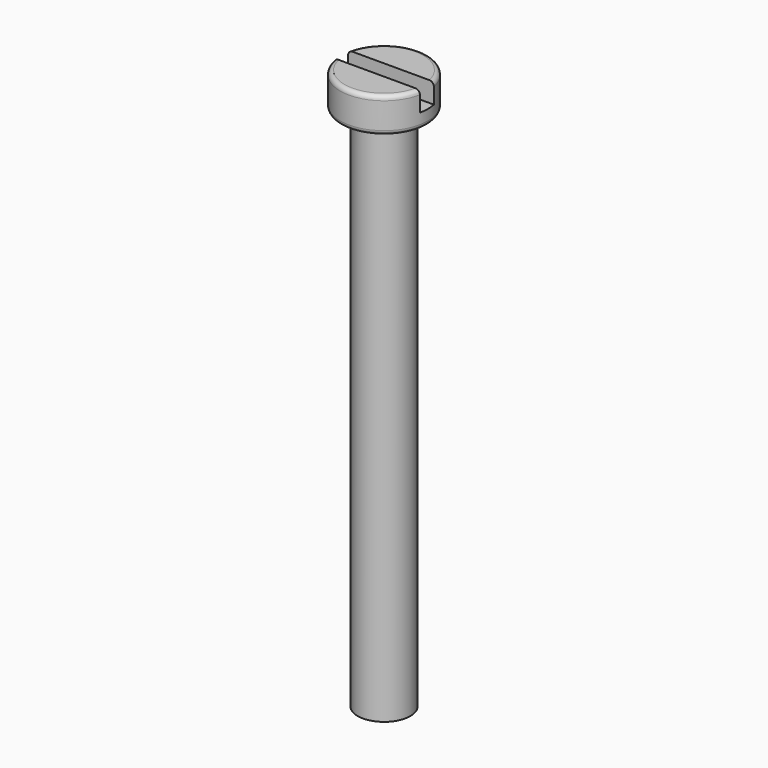
from build123d import *

# Parameters (mm, degrees)
F0_R     = 3
F1_DEPTH = 60
F2_R     = 5
F3_DEPTH = 4
F4_R     = 0.5
F5_W     = 13
F5_H     = 2
F6_DEPTH = 2.3


with BuildPart() as f1:
    # F0 (on Top) → F1 (new body)
    with BuildSketch(Plane.XY):
        Circle(F0_R)
    extrude(amount=-F1_DEPTH)

    # F2 (on face) → F3 (join)
    with BuildSketch(Plane.XY):
        Circle(F2_R)
    extrude(amount=F3_DEPTH)

    # F4
    f4_edges = [f1.edges().sort_by_distance(p)[0] for p in [
        (-5, 0, 4),
        (-5, 0, 0),
    ]]
    fillet(f4_edges, radius=F4_R)

    # F5 (on face) → F6 (cut)
    with BuildSketch(Plane.XY.offset(4)):
        Rectangle(F5_W, F5_H)
    extrude(amount=-F6_DEPTH, mode=Mode.SUBTRACT)


solid = f1.part
